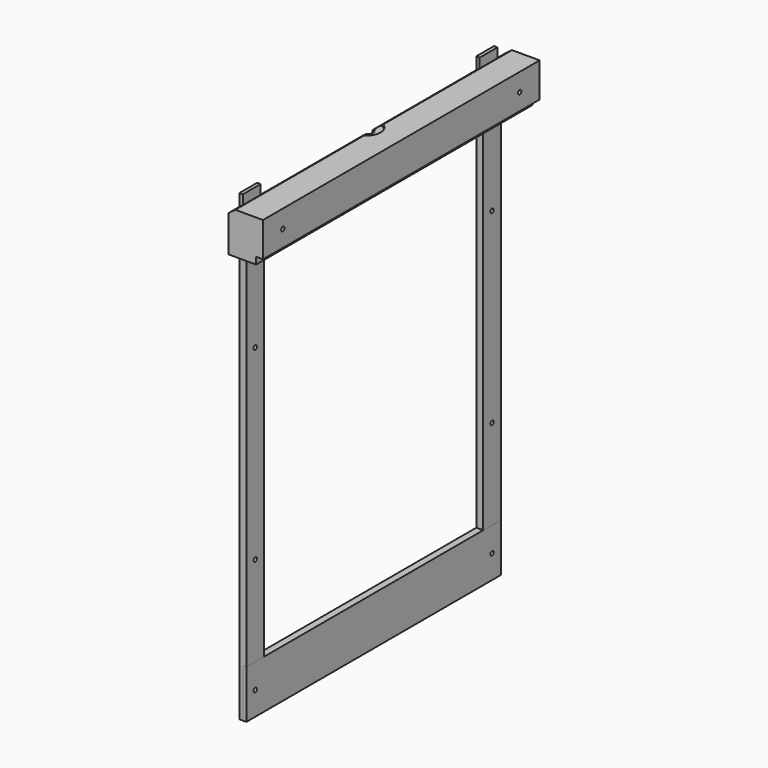
from build123d import *

# Parameters (mm, degrees)
CYLINDER009_R               = 1.5
CYLINDER009_DEPTH           = 47
CYLINDER009_PITCH_ANGLE     = 90
CYLINDER004_R               = 1.5
CYLINDER004_DEPTH           = 47
CYLINDER004_PITCH_ANGLE     = 90
SKETCH002_W                 = 230
SKETCH002_H                 = 35
PAD003_DEPTH                = 5
CYLINDER003_R               = 1.5
CYLINDER003_DEPTH           = 47
CYLINDER003_PITCH_ANGLE     = 90
CYLINDER002_R               = 1.5
CYLINDER002_DEPTH           = 47
CYLINDER002_PITCH_ANGLE     = 90
CYLINDER_R                  = 10
CYLINDER_DEPTH              = 2
CYLINDER001_R               = 4.5
CYLINDER001_DEPTH           = 20
BOX002_W                    = 2.6
BOX002_H                    = 185
BOX002_DEPTH                = 45
BOX_W                       = 6.6
BOX_H                       = 16
BOX_DEPTH                   = 45
BOX001_W                    = 7.6
BOX001_H                    = 16
BOX001_DEPTH                = 45
PAD_DEPTH                   = 250
CYLINDER008_R               = 1.5
CYLINDER008_DEPTH           = 47
CYLINDER008_PITCH_ANGLE     = 90
CYLINDER011_R               = 1.5
CYLINDER011_DEPTH           = 47
CYLINDER011_PITCH_ANGLE     = 90
CYLINDER012_R               = 1.5
CYLINDER012_DEPTH           = 47
CYLINDER012_PITCH_ANGLE     = 90
CYLINDER006_R               = 1.5
CYLINDER006_DEPTH           = 47
CYLINDER006_PLACEMENT_ANGLE = 90.00001
PAD002_DEPTH                = 16


with BuildPart() as cylinder009:
    # Cylinder009 → Cylinder009 (new body)
    with BuildSketch(Plane.XY):
        Circle(CYLINDER009_R)
    extrude(amount=CYLINDER009_DEPTH)


with BuildPart() as cylinder009_1:
    # Cylinder009 pitch: moved
    add(cylinder009.part.rotate(Axis((0, 0, 0), (0, 1, 0)), CYLINDER009_PITCH_ANGLE))


with BuildPart() as cylinder009_2:
    # Cylinder009 placement: moved
    add(cylinder009_1.part.moved(Location((-37, -18, -283))))


with BuildPart() as bottom_holes:
    # Cylinder004 → Cylinder004 (new body)
    with BuildSketch(Plane.XY):
        Circle(CYLINDER004_R)
    extrude(amount=CYLINDER004_DEPTH)


with BuildPart() as bottom_holes_1:
    # Cylinder004 pitch: moved
    add(bottom_holes.part.rotate(Axis((0, 0, 0), (0, 1, 0)), CYLINDER004_PITCH_ANGLE))


with BuildPart() as bottom_holes_2:
    # Cylinder004 placement: moved
    add(bottom_holes_1.part.moved(Location((-37, -232, -283))))

    # Fusion003: union Cylinder009
    add(cylinder009_2.part)


with BuildPart() as bottom_final:
    # Sketch002 → Pad003 (new body)
    with BuildSketch(Plane.YZ):
        with Locations((-125, -282.5)):
            Rectangle(SKETCH002_W, SKETCH002_H)
    extrude(amount=PAD003_DEPTH)

    # Cut003: cut Bottom holes
    add(bottom_holes_2.part, mode=Mode.SUBTRACT)


with BuildPart() as cylinder003:
    # Cylinder003 → Cylinder003 (new body)
    with BuildSketch(Plane.XY):
        Circle(CYLINDER003_R)
    extrude(amount=CYLINDER003_DEPTH)


with BuildPart() as cylinder003_1:
    # Cylinder003 pitch: moved
    add(cylinder003.part.rotate(Axis((0, 0, 0), (0, 1, 0)), CYLINDER003_PITCH_ANGLE))


with BuildPart() as cylinder003_2:
    # Cylinder003 placement: moved
    add(cylinder003_1.part.moved(Location((-37, -232, 17))))


with BuildPart() as fusion002:
    # Cylinder002 → Cylinder002 (new body)
    with BuildSketch(Plane.XY):
        Circle(CYLINDER002_R)
    extrude(amount=CYLINDER002_DEPTH)


with BuildPart() as fusion002_1:
    # Cylinder002 pitch: moved
    add(fusion002.part.rotate(Axis((0, 0, 0), (0, 1, 0)), CYLINDER002_PITCH_ANGLE))


with BuildPart() as fusion002_2:
    # Cylinder002 placement: moved
    add(fusion002_1.part.moved(Location((-37, -18, 17))))

    # Fusion002: union Cylinder003
    add(cylinder003_2.part)


with BuildPart() as cone:
    # Cone → Cone (revolve)
    with BuildSketch(Plane.XZ):
        Polygon((0, 0), (2, 0), (4.5, 10), (0, 10), align=None)
    revolve(axis=Axis((0, 0, 0), (0, 0, 1)))


with BuildPart() as cylinder:
    # Cylinder → Cylinder (new body)
    with BuildSketch(Plane.XY.offset(28)):
        Circle(CYLINDER_R)
    extrude(amount=CYLINDER_DEPTH)


with BuildPart() as fusion:
    # Cylinder001 → Cylinder001 (new body)
    with BuildSketch(Plane.XY.offset(10)):
        Circle(CYLINDER001_R)
    extrude(amount=CYLINDER001_DEPTH)

    # Fusion: union Cone, Cylinder
    add(cone.part)
    add(cylinder.part)


with BuildPart() as fusion_1:
    # Fusion placement: moved
    add(fusion.part.moved(Location((0, -125, 0))))


with BuildPart() as box002:
    # Box002 → Box002 (new body)
    with BuildSketch(Plane(origin=(-0.5, -217, -17), x_dir=(1, 0, 0), z_dir=(0, 0, 1))):
        with Locations((1.3, 92.5)):
            Rectangle(BOX002_W, BOX002_H)
    extrude(amount=BOX002_DEPTH)


with BuildPart() as box:
    # Box → Box (new body)
    with BuildSketch(Plane(origin=(-2.5, -26, -4), x_dir=(1, 0, 0), z_dir=(0, 0, 1))):
        with Locations((3.3, 8)):
            Rectangle(BOX_W, BOX_H)
    extrude(amount=BOX_DEPTH)


with BuildPart() as fusion001:
    # Box001 → Box001 (new body)
    with BuildSketch(Plane(origin=(-2.5, -240, -4), x_dir=(1, 0, 0), z_dir=(0, 0, 1))):
        with Locations((3.8, 8)):
            Rectangle(BOX001_W, BOX001_H)
    extrude(amount=BOX001_DEPTH)

    # Fusion001: union Box002, Box
    add(box002.part)
    add(box.part)


with BuildPart() as top_final:
    # Sketch → Pad (new body)
    with BuildSketch(Plane.XZ):
        Polygon((-20, 0), (-20, 5), (-25, 5), (-25, 30), (-5, 30), (0, 26.245267), (0, 0), align=None)
    extrude(amount=PAD_DEPTH)

    # Cut: cut Fusion001
    add(fusion001.part, mode=Mode.SUBTRACT)

    # Cut001: cut Fusion
    add(fusion_1.part, mode=Mode.SUBTRACT)

    # Cut002: cut Fusion002
    add(fusion002_2.part, mode=Mode.SUBTRACT)


with BuildPart() as part_mirroring:
    # Part__Mirroring: instance of Top-final
    add(top_final.part.mirror(Plane(origin=(0, 0, 0), x_dir=(0, -1, 0), z_dir=(1, 0, 0))))


with BuildPart() as cylinder008:
    # Cylinder008 → Cylinder008 (new body)
    with BuildSketch(Plane.XY):
        Circle(CYLINDER008_R)
    extrude(amount=CYLINDER008_DEPTH)


with BuildPart() as cylinder008_1:
    # Cylinder008 pitch: moved
    add(cylinder008.part.rotate(Axis((0, 0, 0), (0, 1, 0)), CYLINDER008_PITCH_ANGLE))


with BuildPart() as cylinder008_2:
    # Cylinder008 placement: moved
    add(cylinder008_1.part.moved(Location((-37, -18, -200))))


with BuildPart() as cylinder011:
    # Cylinder011 → Cylinder011 (new body)
    with BuildSketch(Plane.XY):
        Circle(CYLINDER011_R)
    extrude(amount=CYLINDER011_DEPTH)


with BuildPart() as cylinder011_1:
    # Cylinder011 pitch: moved
    add(cylinder011.part.rotate(Axis((0, 0, 0), (0, 1, 0)), CYLINDER011_PITCH_ANGLE))


with BuildPart() as cylinder011_2:
    # Cylinder011 placement: moved
    add(cylinder011_1.part.moved(Location((-37, -18, -283))))


with BuildPart() as cylinder012:
    # Cylinder012 → Cylinder012 (new body)
    with BuildSketch(Plane.XY):
        Circle(CYLINDER012_R)
    extrude(amount=CYLINDER012_DEPTH)


with BuildPart() as cylinder012_1:
    # Cylinder012 pitch: moved
    add(cylinder012.part.rotate(Axis((0, 0, 0), (0, 1, 0)), CYLINDER012_PITCH_ANGLE))


with BuildPart() as cylinder012_2:
    # Cylinder012 placement: moved
    add(cylinder012_1.part.moved(Location((-37, -18, 17))))


with BuildPart() as side_holes:
    # Cylinder006 → Cylinder006 (new body)
    with BuildSketch(Plane.XY):
        Circle(CYLINDER006_R)
    extrude(amount=CYLINDER006_DEPTH)


with BuildPart() as side_holes_1:
    # Cylinder006 placement: moved
    add(side_holes.part.moved(Location((-37.000006, -18, -65.000003))).rotate(Axis((-37.000006, -18, -65.000003), (0, 1, 0)), CYLINDER006_PLACEMENT_ANGLE))

    # Fusion004: union Cylinder008, Cylinder011, Cylinder012
    add(cylinder008_2.part)
    add(cylinder011_2.part)
    add(cylinder012_2.part)


with BuildPart() as side:
    # Sketch001 → Pad002 (new body)
    with BuildSketch(Plane(origin=(0, -10, 0), x_dir=(1, 0, 0), z_dir=(0, -1, 1e-06))):
        Polygon((-5, -265), (-5, 0), (-2.5, 0), (-2.5, 35), (0, 35), (0, -300), (-2.5, -300), (-2.5, -265), align=None)
    extrude(amount=PAD002_DEPTH)


with BuildPart() as side_final:
    # Cut004 base: copy of side
    add(side.part)

    # Cut004: cut Side holes
    add(side_holes_1.part, mode=Mode.SUBTRACT)


with BuildPart() as part_mirroring001:
    # Part__Mirroring001: instance of Side-final
    add(side_final.part.mirror(Plane(origin=(0, 0, 0), x_dir=(0, -1, 0), z_dir=(1, 0, 0))))


with BuildPart() as side_final001:
    # Cut005 base: copy of side
    add(side.part)

    # Cut005: cut Side holes
    add(side_holes_1.part, mode=Mode.SUBTRACT)


with BuildPart() as side_final001_1:
    # Cut005 placement: moved
    add(side_final001.part.moved(Location((0, -214, 0))))


with BuildPart() as part_mirroring002:
    # Part__Mirroring002: instance of Side-final001
    add(side_final001_1.part.mirror(Plane(origin=(0, 0, 0), x_dir=(0, -1, 0), z_dir=(1, 0, 0))))


solid = Compound([bottom_final.part, part_mirroring.part, part_mirroring001.part, part_mirroring002.part])
